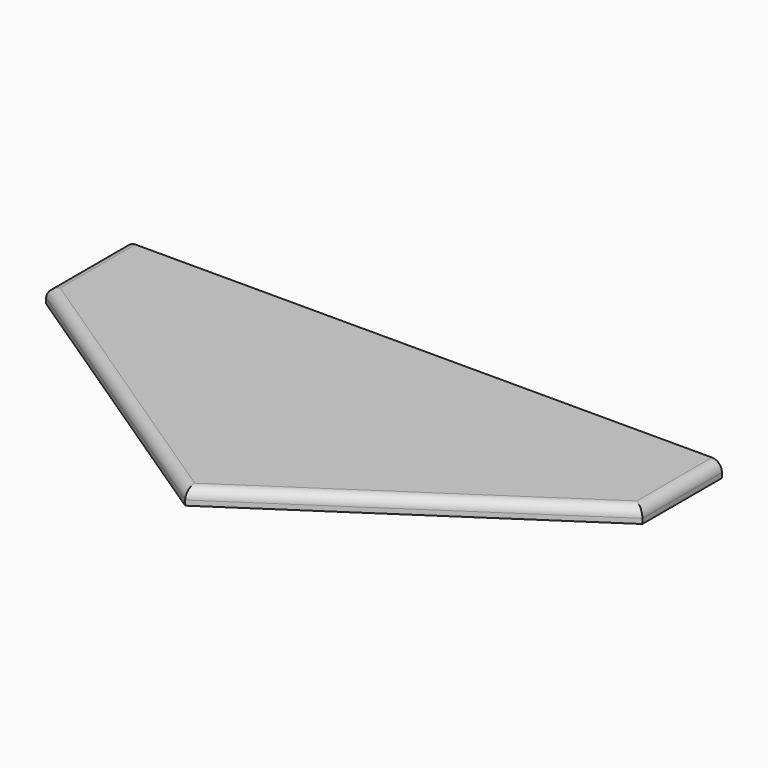
from build123d import *

# Parameters (mm, degrees)
F1_DEPTH = 1.5
F2_R     = 2


with BuildPart() as f1:
    # F0 (on Top) → F1 (new body, symmetric)
    with BuildSketch(Plane.XY):
        Polygon((0, 30), (-60, 30), (-60, 10), (0, -30), align=None)
        Polygon((60, 30), (0, 30), (0, -30), (60, 10), align=None)
    extrude(amount=F1_DEPTH, both=True)

    # F2
    f2_edges = [f1.edges().sort_by_distance(p)[0] for p in [
        (30, -10, 1.5),
        (-30, -10, 1.5),
        (-60, 20, 1.5),
        (60, 20, 1.5),
    ]]
    fillet(f2_edges, radius=F2_R)


solid = f1.part
